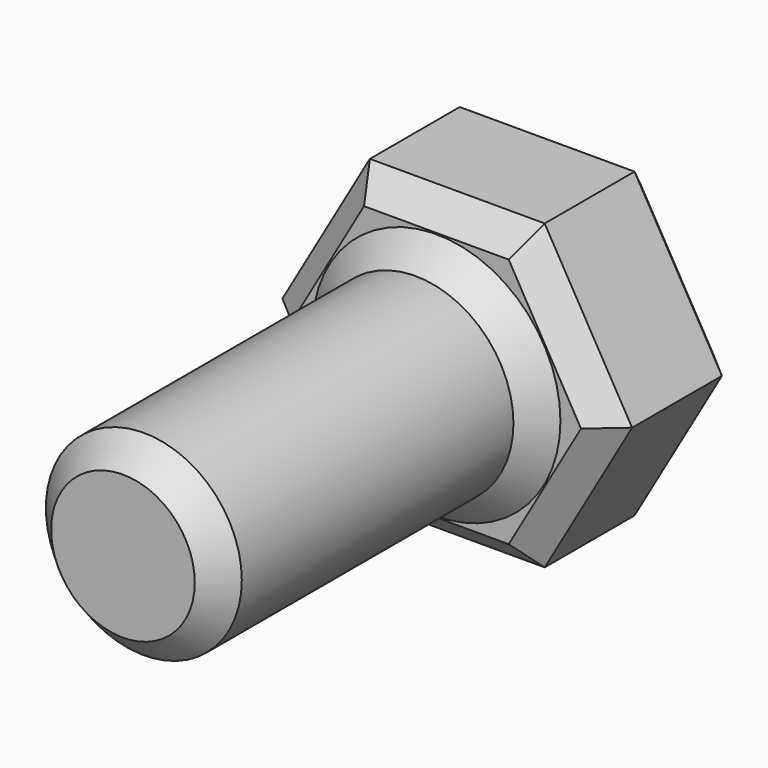
from build123d import *

# Parameters (mm, degrees)
F1_DEPTH = 8
F2_R     = 4.7625
F3_DEPTH = 19.05
F4_SIZE  = 1.27


with BuildPart() as f1:
    # F0 (on Front) → F1 (new body)
    with BuildSketch(Plane.XZ):
        Polygon((4.25, -7.361216), (8.5, 0), (4.25, 7.361216), (-4.25, 7.361216), (-8.5, 0), (-4.25, -7.361216), align=None)
    extrude(amount=F1_DEPTH)

    # F2 (on face) → F3 (join)
    with BuildSketch(Plane.XZ.offset(8)):
        Circle(F2_R)
    extrude(amount=F3_DEPTH)

    # F4
    f4_edges = [f1.edges().sort_by_distance(p)[0] for p in [
        (-4.7625, -27.05, 0),
        (6.375, 0, 3.680608),
        (0, 0, -7.361216),
        (6.375, 0, -3.680608),
        (-6.375, 0, -3.680608),
        (-6.375, 0, 3.680608),
        (0, 0, 7.361216),
        (6.375, -8, 3.680608),
        (6.375, -8, -3.680608),
        (4.7625, -17.525, 0),
        (-4.7625, -8, 0),
        (0, -8, 7.361216),
        (-6.375, -8, 3.680608),
        (0, -8, -7.361216),
        (-6.375, -8, -3.680608),
    ]]
    chamfer(f4_edges, length=F4_SIZE)


solid = f1.part
